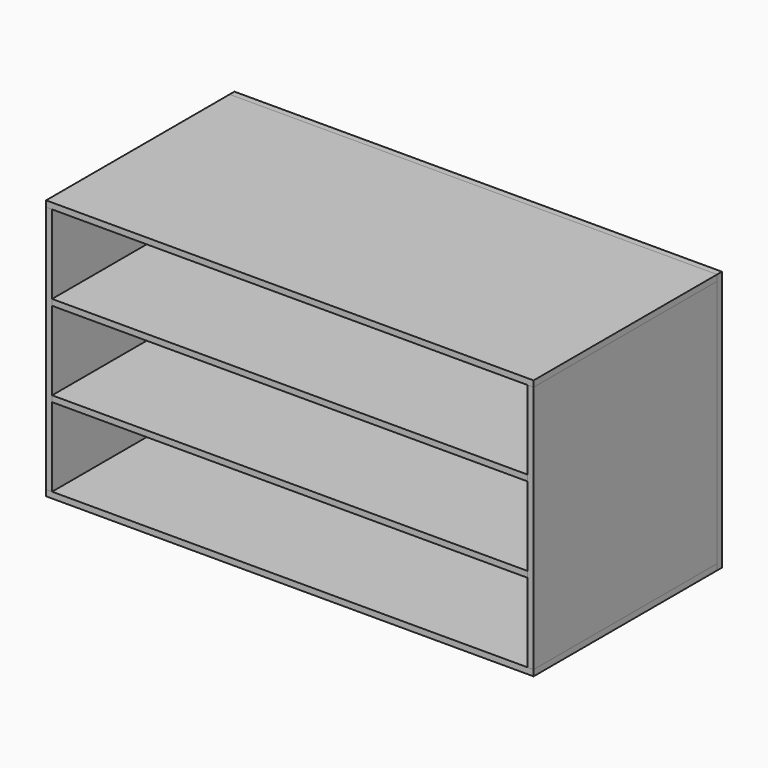
from build123d import *

# Parameters (mm, degrees)
F1_W      = 255
F1_H      = 120
F2_DEPTH  = 3.15
F3_W      = 120
F3_H      = 130
F4_DEPTH  = 3.15
F5_W      = 248.7
F5_H      = 3.15
F6_DEPTH  = 120
F9_W      = 255
F9_H      = 136.3
F10_DEPTH = 3.15


with BuildPart() as f2:
    # F1 (on Top) → F2 (new body)
    with BuildSketch(Plane.XY):
        with Locations((127.5, 60)):
            Rectangle(F1_W, F1_H)
    extrude(amount=F2_DEPTH)


with BuildPart() as f4:
    # F3 (on face) → F4 (new body)
    with BuildSketch(Plane(origin=(0, 0, 0), x_dir=(0, -1, 0), z_dir=(-1, 0, 0))):
        with Locations((-60, 68.15)):
            Rectangle(F3_W, F3_H)
    extrude(amount=-F4_DEPTH)


with BuildPart() as f6:
    # F5 (on face) → F6 (new body, through all)
    with BuildSketch(Plane.XZ):
        with Locations((127.5, 45.9583333333)):
            Rectangle(F5_W, F5_H)
    extrude(amount=-F6_DEPTH)


with BuildPart() as f6b:
    # F5 (on face) → F6, piece 2 (new body, through all)
    with BuildSketch(Plane.XZ):
        with Locations((127.5, 90.3416666667)):
            Rectangle(F5_W, F5_H)
    extrude(amount=-F6_DEPTH)


with BuildPart() as f7_1:
    # F7: copy of F2
    add(f2.part.moved(Location((0, 0, 133.15))))


with BuildPart() as f8_1:
    # F8: copy of F4
    add(f4.part.moved(Location((251.85, 0, 0))))


with BuildPart() as f10:
    # F9 (on face) → F10 (new body)
    with BuildSketch(Plane(origin=(0, 120, 0), x_dir=(-1, 0, 0), z_dir=(0, 1, 0))):
        with Locations((-127.5, 68.15)):
            Rectangle(F9_W, F9_H)
    extrude(amount=F10_DEPTH)


solid = Compound([f2.part, f4.part, f6.part, f6b.part, f7_1.part, f8_1.part, f10.part])
